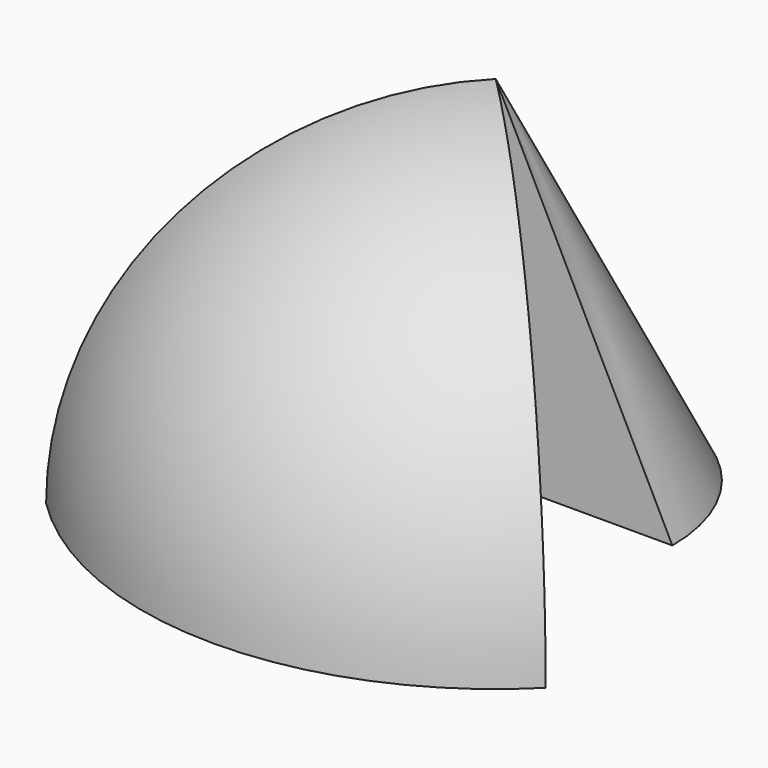
from build123d import *

# Parameters (mm, degrees)
F1_ANGLE      = 180
F3_ANGLE_BACK = 45
F3_ANGLE      = 90


with BuildPart() as f1:
    # F0 (on Front) → F1 (revolve)
    with BuildSketch(Plane.XZ):
        Polygon((-12.5, 0), (0, 0), (0, 25), align=None)
    revolve(axis=Axis((0, 0, 12.5), (0, 0, -1)), revolution_arc=F1_ANGLE)


with BuildPart() as f3:
    # F2 (on Right) → F3 (revolve)
    with BuildSketch(Plane.YZ, mode=Mode.PRIVATE) as f3_sk:
        with BuildLine():
            Line((0, 0), (0, 25))
            ThreePointArc((0, 25), (-17.6776695297, 17.6776695297), (-25, 0))
            Line((-25, 0), (0, 0))
        make_face()
    revolve(f3_sk.sketch.rotate(Axis((0, 0, 12.5), (0, 0, -1)), -F3_ANGLE_BACK), axis=Axis((0, 0, 12.5), (0, 0, -1)), revolution_arc=F3_ANGLE)


solid = Compound([f1.part, f3.part])
